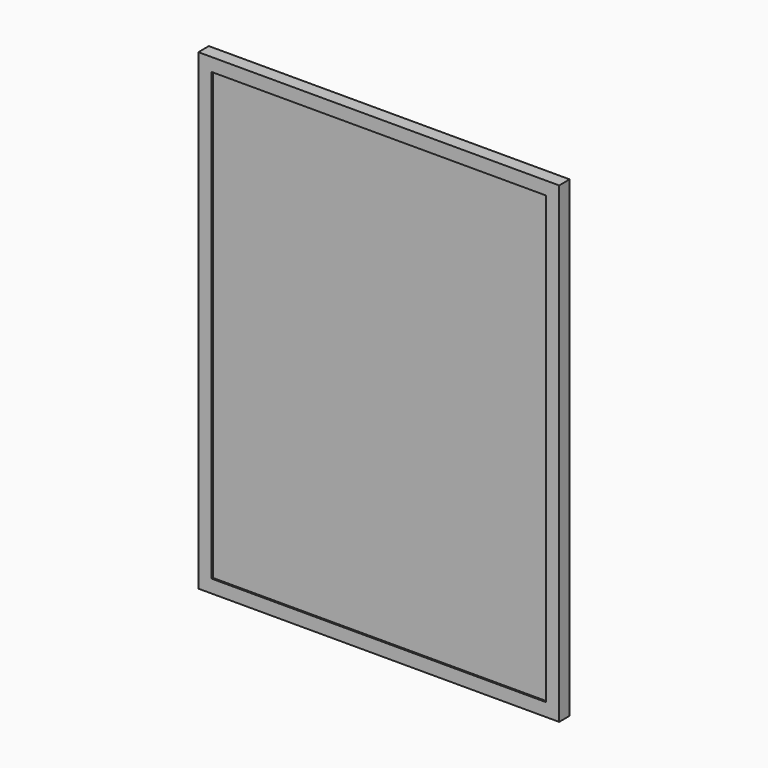
from build123d import *

# Parameters (mm, degrees)
F0_W     = 698.5
F0_H     = 914.4
F0_W_2   = 647.7
F0_H_2   = 863.6
F1_DEPTH = 12.7
F2_DEPTH = 9.525


with BuildPart() as f1:
    # F0 (on Front) → F1 (new body, symmetric)
    with BuildSketch(Plane.XZ):
        with Locations((-349.25, 457.2)):
            Rectangle(F0_W, F0_H)
        with Locations((-349.25, 457.2)):
            Rectangle(F0_W_2, F0_H_2, mode=Mode.SUBTRACT)
    extrude(amount=F1_DEPTH, both=True)

    # F0 (on Front) → F2 (join, symmetric)
    with BuildSketch(Plane.XZ):
        with Locations((-349.25, 457.2)):
            Rectangle(F0_W_2, F0_H_2)
    extrude(amount=F2_DEPTH, both=True)


solid = f1.part
